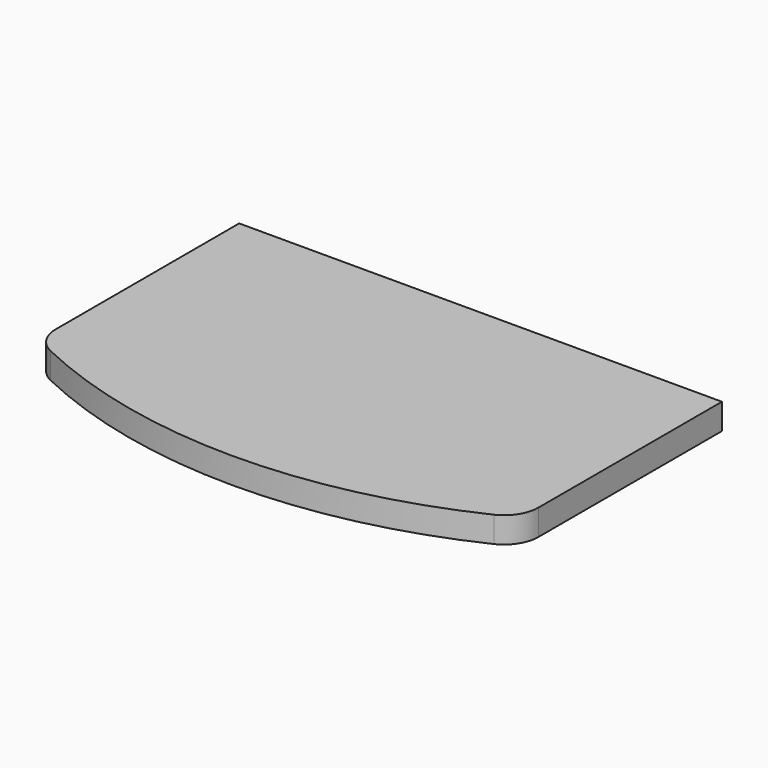
from build123d import *

# Parameters (mm, degrees)
F1_DEPTH = 19.05


with BuildPart() as f1:
    # F0 (on Top) → F1 (new body, symmetric)
    with BuildSketch(Plane.XY):
        with BuildLine():
            Line((1270, 0), (558.8, 0))
            Line((558.8, 0), (558.8, -337.774821))
            ThreePointArc((558.8, -337.774821), (566.666164, -364.928563), (587.828571, -383.673022))
            ThreePointArc((587.828571, -383.673022), (914.4, -457.2), (1240.971429, -383.673022))
            ThreePointArc((1240.971429, -383.673022), (1262.133836, -364.928563), (1270, -337.774821))
            Line((1270, -337.774821), (1270, 0))
        make_face()
    extrude(amount=F1_DEPTH, both=True)


solid = f1.part
